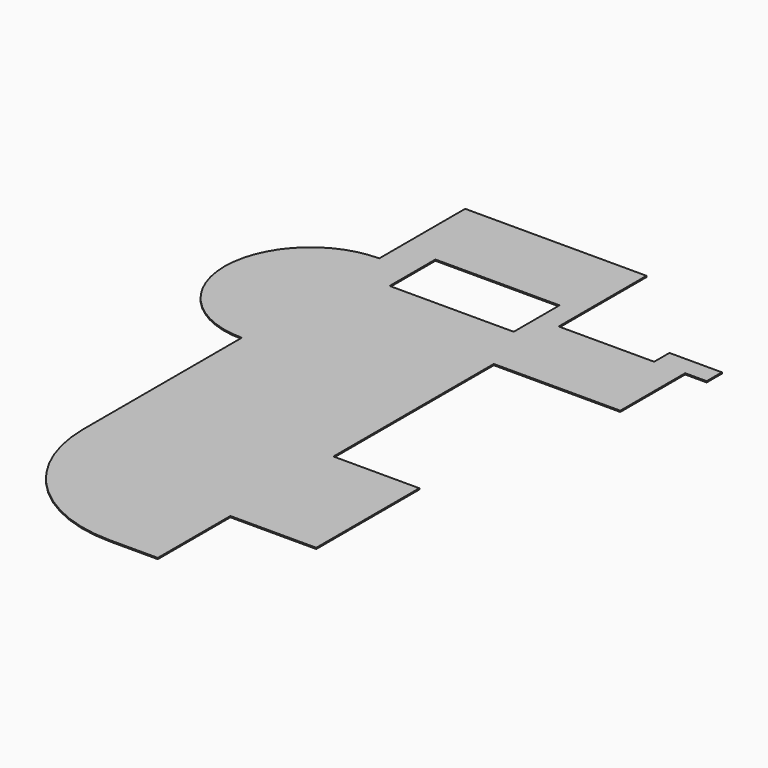
from build123d import *

# Parameters (mm, degrees)
F0_W     = 1800
F0_H     = 2700
F0_W_2   = 2600
F0_H_2   = 1200
F1_DEPTH = 25


with BuildPart() as f1:
    # F0 (on Top) → F1 (new body)
    with BuildSketch(Plane.XY):
        with Locations((2800, -3150)):
            Rectangle(F0_W, F0_H)
        with BuildLine():
            ThreePointArc((-1900, 4150), (-3700, 2350), (-1900, 550))
            Line((-1900, 550), (-1900, 4150))
        make_face()
        Polygon((3900, 4500), (3900, 4100), (4550, 4100), (5000, 4100), (5000, 4500), align=None)
        Polygon((1900, 4100), (1900, 2400), (4550, 2400), (4550, 4100), (3900, 4100), align=None)
        with BuildLine():
            Line((900, -6400), (1900, -6400))
            Line((1900, -6400), (1900, -4500))
            Line((1900, -4500), (1900, -1800))
            Line((1900, -1800), (1900, 2400))
            Line((1900, 2400), (1900, 4100))
            Line((1900, 4100), (1900, 6400))
            Line((1900, 6400), (-1900, 6400))
            Line((-1900, 6400), (-1900, 4150))
            Line((-1900, 4150), (-1900, 550))
            Line((-1900, 550), (-1900, -3600))
            ThreePointArc((-1900, -3600), (-1079.898987, -5579.898987), (900, -6400))
        make_face()
        with Locations((141.980958, 4093.544817)):
            Rectangle(F0_W_2, F0_H_2, mode=Mode.SUBTRACT)
    extrude(amount=F1_DEPTH)


solid = f1.part
